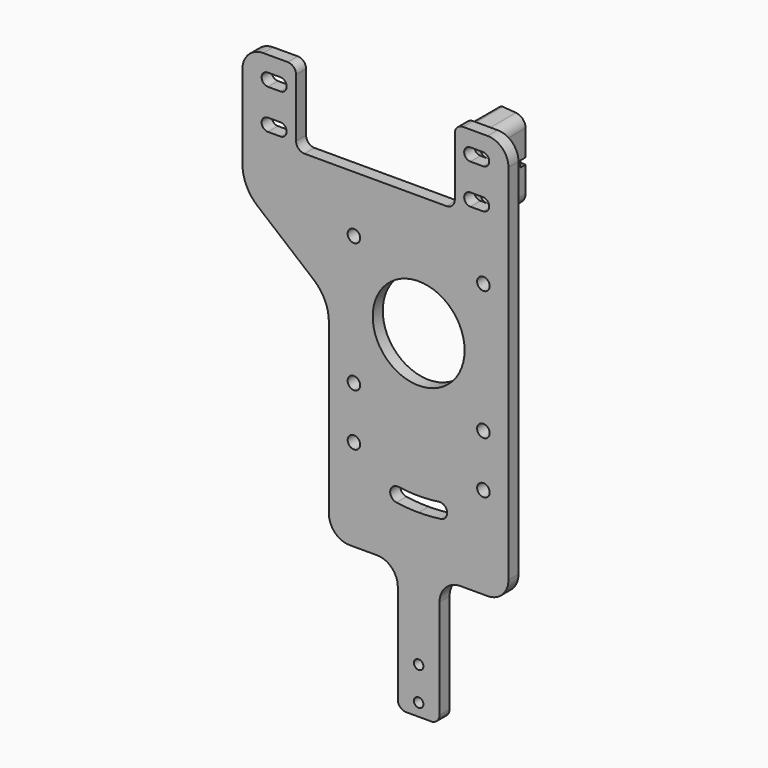
from build123d import *

# Parameters (mm, degrees)
F1_R     = 1.5
F1_R_2   = 1.125
F1_R_3   = 11
F2_DEPTH = 3
F3_R     = 1.5
F4_DEPTH = 8.5
F5_W     = 6.5
F5_H     = 1.5
F6_DEPTH = 1.5
F7_R     = 1
F8_R     = 2.5


with BuildPart() as f2:
    # F1 (on Front) → F2 (new body)
    with BuildSketch(Plane.XZ):
        with BuildLine():
            ThreePointArc((16.5, -50), (20.035534, -48.535534), (21.5, -45))
            Line((21.5, -45), (21.5, 42))
            ThreePointArc((21.5, 42), (20.035534, 45.535534), (16.5, 47))
            Line((16.5, 47), (10.65, 47))
            ThreePointArc((10.65, 47), (9.235786, 46.414214), (8.65, 45))
            Line((8.65, 45), (8.65, 31))
            ThreePointArc((8.65, 31), (8.064214, 29.585786), (6.65, 29))
            Line((6.65, 29), (-27.35, 29))
            ThreePointArc((-27.35, 29), (-28.764214, 29.585786), (-29.35, 31))
            Line((-29.35, 31), (-29.35, 45))
            ThreePointArc((-29.35, 45), (-29.935786, 46.414214), (-31.35, 47))
            Line((-31.35, 47), (-37.2, 47))
            ThreePointArc((-37.2, 47), (-40.735534, 45.535534), (-42.2, 42))
            Line((-42.2, 42), (-42.2, 22.015033))
            ThreePointArc((-42.2, 22.015033), (-41.251777, 17.7647), (-38.586933, 14.320419))
            Line((-38.586933, 14.320419), (-25.113067, 3.136405))
            ThreePointArc((-25.113067, 3.136405), (-22.448223, -0.307876), (-21.5, -4.558209))
            Line((-21.5, -4.558209), (-21.5, -45))
            ThreePointArc((-21.5, -45), (-20.035534, -48.535534), (-16.5, -50))
            Line((-16.5, -50), (-10, -50))
            ThreePointArc((-10, -50), (-6.464466, -51.464466), (-5, -55))
            Line((-5, -55), (-5, -78.815218))
            ThreePointArc((-5, -78.815218), (-4.414214, -80.229432), (-3, -80.815218))
            Line((-3, -80.815218), (3, -80.815218))
            ThreePointArc((3, -80.815218), (4.414214, -80.229432), (5, -78.815218))
            Line((5, -78.815218), (5, -55))
            ThreePointArc((5, -55), (6.464466, -51.464466), (10, -50))
            Line((10, -50), (16.5, -50))
        make_face()
        with Locations((-15.5, -28)):
            Circle(F1_R, mode=Mode.SUBTRACT)
        with Locations((0, -77.815218)):
            Circle(F1_R_2, mode=Mode.SUBTRACT)
        with Locations((0, -69.815218)):
            Circle(F1_R_2, mode=Mode.SUBTRACT)
        with BuildLine():
            ThreePointArc((0, -34.25), (2.419604, -34.164426), (4.827117, -33.908132))
            ThreePointArc((4.827117, -33.908132), (6.80629, -35.394024), (5.320399, -37.373197))
            ThreePointArc((5.320399, -37.373197), (2.666863, -37.655681), (0, -37.75))
            ThreePointArc((0, -37.75), (-2.666863, -37.655681), (-5.320399, -37.373197))
            ThreePointArc((-5.320399, -37.373197), (-6.80629, -35.394024), (-4.827117, -33.908132))
            ThreePointArc((-4.827117, -33.908132), (-2.419604, -34.164426), (0, -34.25))
        make_face(mode=Mode.SUBTRACT)
        with Locations((15.5, -28)):
            Circle(F1_R, mode=Mode.SUBTRACT)
        with Locations((-15.5, -15.5)):
            Circle(F1_R, mode=Mode.SUBTRACT)
        with BuildLine():
            ThreePointArc((-36.1, 30.75), (-37.6, 32.25), (-36.1, 33.75))
            Line((-36.1, 33.75), (-33.1, 33.75))
            ThreePointArc((-33.1, 33.75), (-31.6, 32.25), (-33.1, 30.75))
            Line((-33.1, 30.75), (-36.1, 30.75))
        make_face(mode=Mode.SUBTRACT)
        with BuildLine():
            Line((-33.1, 40.25), (-36.1, 40.25))
            ThreePointArc((-36.1, 40.25), (-37.6, 41.75), (-36.1, 43.25))
            Line((-36.1, 43.25), (-33.1, 43.25))
            ThreePointArc((-33.1, 43.25), (-31.6, 41.75), (-33.1, 40.25))
        make_face(mode=Mode.SUBTRACT)
        with Locations((-15.5, 15.5)):
            Circle(F1_R, mode=Mode.SUBTRACT)
        Circle(F1_R_3, mode=Mode.SUBTRACT)
        with Locations((15.5, -15.5)):
            Circle(F1_R, mode=Mode.SUBTRACT)
        with Locations((15.5, 15.5)):
            Circle(F1_R, mode=Mode.SUBTRACT)
        with BuildLine():
            Line((15.4, 30.75), (12.4, 30.75))
            ThreePointArc((12.4, 30.75), (10.9, 32.25), (12.4, 33.75))
            Line((12.4, 33.75), (15.4, 33.75))
            ThreePointArc((15.4, 33.75), (16.9, 32.25), (15.4, 30.75))
        make_face(mode=Mode.SUBTRACT)
        with BuildLine():
            Line((15.4, 40.25), (12.4, 40.25))
            ThreePointArc((12.4, 40.25), (10.9, 41.75), (12.4, 43.25))
            Line((12.4, 43.25), (15.4, 43.25))
            ThreePointArc((15.4, 43.25), (16.9, 41.75), (15.4, 40.25))
        make_face(mode=Mode.SUBTRACT)
    extrude(amount=F2_DEPTH)


with BuildPart() as f4:
    # F3 (on Front) → F4 (new body)
    with BuildSketch(Plane.XZ):
        Polygon((16.4, 27.75), (16.4, 46.25), (9.9, 46.75), (9.9, 27.25), align=None)
        with Locations((13.9, 32.25)):
            Circle(F3_R, mode=Mode.SUBTRACT)
        with Locations((13.9, 41.75)):
            Circle(F3_R, mode=Mode.SUBTRACT)
    extrude(amount=-F4_DEPTH)

    # F5 (on face) → F6 (cut)
    with BuildSketch(Plane(origin=(0, 8.5, 0), x_dir=(-1, 0, 0), z_dir=(0, 1, 0))):
        with Locations((-13.15, 37)):
            Rectangle(F5_W, F5_H)
    extrude(amount=-F6_DEPTH, mode=Mode.SUBTRACT)

    # F7
    f7_edges = [f4.edges().sort_by_distance(p)[0] for p in [
        (9.9, 4.25, 46.75),
        (9.9, 4.25, 27.25),
    ]]
    fillet(f7_edges, radius=F7_R)

    # F8
    f8_edges = [f4.edges().sort_by_distance(p)[0] for p in [
        (16.4, 4.25, 27.75),
        (16.4, 4.25, 46.25),
    ]]
    fillet(f8_edges, radius=F8_R)


solid = Compound([f2.part, f4.part])
